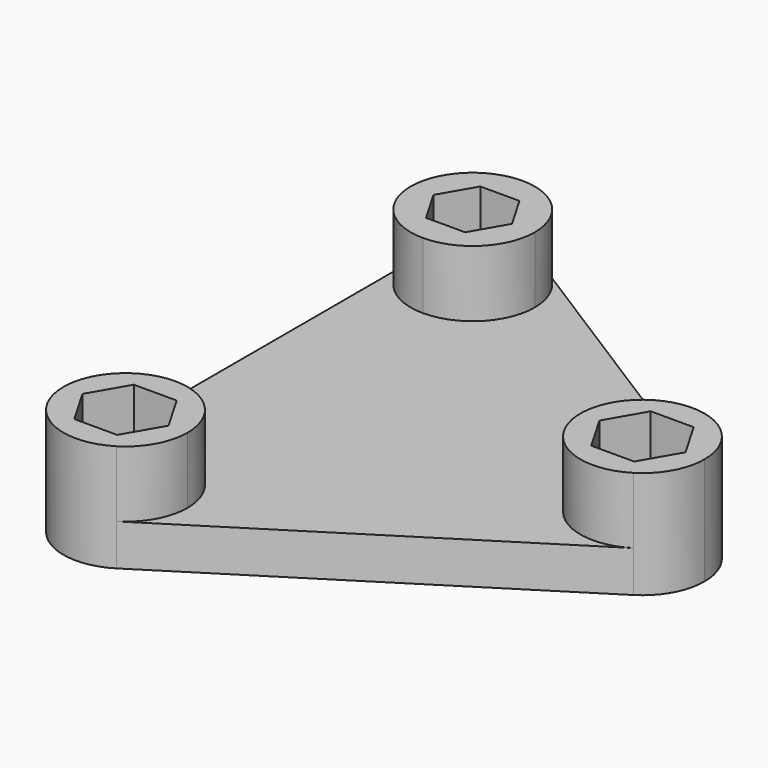
from build123d import *

# Parameters (mm, degrees)
F1_DEPTH = 5
F2_DEPTH = 13
F3_DEPTH = 7


with BuildPart() as f1:
    # F0 (on Top) → F1 (new body)
    with BuildSketch(Plane.XY):
        with BuildLine():
            ThreePointArc((-21.353622, 18.730685), (-26.656923, 20.927384), (-28.853622, 26.230685))
            Line((-28.853622, 26.230685), (-28.853622, -26.230685))
            ThreePointArc((-28.853622, -26.230685), (-26.656923, -20.927384), (-21.353622, -18.730685))
            Line((-21.353622, -18.730685), (-21.353622, 18.730685))
        make_face()
        with BuildLine():
            ThreePointArc((24.153526, -6.339776), (12.646378, 0), (24.153527, 6.339776))
            Line((24.153527, 6.339776), (-17.346473, 32.570461))
            ThreePointArc((-17.346473, 32.570461), (-14.784619, 29.849828), (-13.853622, 26.230685))
            ThreePointArc((-13.853622, 26.230685), (-16.050321, 20.927384), (-21.353622, 18.730685))
            Line((-21.353622, 18.730685), (-21.353622, -18.730685))
            ThreePointArc((-21.353622, -18.730685), (-16.050321, -20.927384), (-13.853622, -26.230685))
            ThreePointArc((-13.853622, -26.230685), (-14.784619, -29.849828), (-17.346473, -32.570461))
            Line((-17.346473, -32.570461), (24.153526, -6.339776))
        make_face()
    extrude(amount=F1_DEPTH)

    # F0 (on Top) → F2 (join)
    with BuildSketch(Plane.XY):
        with BuildLine():
            ThreePointArc((-28.853622, -26.230685), (-24.972765, -32.799689), (-17.346473, -32.570461))
            ThreePointArc((-17.346473, -32.570461), (-14.784619, -29.849828), (-13.853622, -26.230685))
            ThreePointArc((-13.853622, -26.230685), (-16.050321, -20.927384), (-21.353622, -18.730685))
            ThreePointArc((-21.353622, -18.730685), (-26.656923, -20.927384), (-28.853622, -26.230685))
        make_face()
        Polygon((-23.951698, -21.730685), (-21.353622, -21.730685), (-18.755546, -21.730685), (-16.15747, -26.230685), (-18.755546, -30.730685), (-23.951698, -30.730685), (-26.549775, -26.230685), align=None, mode=Mode.SUBTRACT)
        with BuildLine():
            ThreePointArc((24.153526, -6.339776), (26.715381, -3.619143), (27.646378, 0))
            ThreePointArc((27.646378, 0), (26.715381, 3.619143), (24.153527, 6.339776))
            ThreePointArc((24.153527, 6.339776), (12.646378, 0), (24.153526, -6.339776))
        make_face()
        Polygon((25.34253, 0), (22.744454, -4.5), (17.548302, -4.5), (14.950225, 0), (17.548302, 4.5), (22.744454, 4.5), align=None, mode=Mode.SUBTRACT)
        with BuildLine():
            ThreePointArc((-13.853622, 26.230685), (-14.784619, 29.849828), (-17.346473, 32.570461))
            ThreePointArc((-17.346473, 32.570461), (-24.972765, 32.799689), (-28.853622, 26.230685))
            ThreePointArc((-28.853622, 26.230685), (-26.656923, 20.927384), (-21.353622, 18.730685))
            ThreePointArc((-21.353622, 18.730685), (-16.050321, 20.927384), (-13.853622, 26.230685))
        make_face()
        Polygon((-18.983858, 22.126133), (-21.353622, 22.126133), (-23.723387, 22.126133), (-26.093151, 26.230685), (-23.723387, 30.335237), (-18.983858, 30.335237), (-16.614093, 26.230685), align=None, mode=Mode.SUBTRACT)
    extrude(amount=F2_DEPTH)

    # F0 (on Top) → F3 (join)
    with BuildSketch(Plane.XY):
        Polygon((-23.723387, 22.126133), (-21.353622, 22.126133), (-18.983858, 22.126133), (-16.614093, 26.230685), (-18.983858, 30.335237), (-23.723387, 30.335237), (-26.093151, 26.230685), align=None)
        Polygon((-18.755546, -21.730685), (-21.353622, -21.730685), (-23.951698, -21.730685), (-26.549775, -26.230685), (-23.951698, -30.730685), (-18.755546, -30.730685), (-16.15747, -26.230685), align=None)
        Polygon((17.548302, -4.5), (22.744454, -4.5), (25.34253, 0), (22.744454, 4.5), (17.548302, 4.5), (14.950225, 0), align=None)
    extrude(amount=F3_DEPTH)


solid = f1.part
